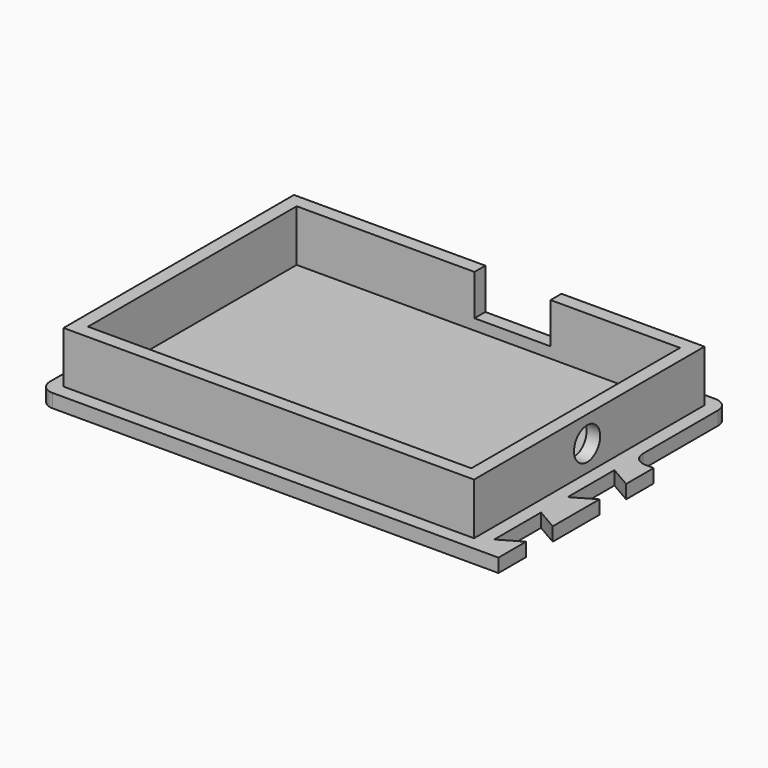
from build123d import *

# Parameters (mm, degrees)
SKETCH_W        = 70.5
SKETCH_H        = 47.97
PAD_DEPTH       = 9.5
THICKNESS_T     = 2.5
PAD001_DEPTH    = 2.5
SKETCH003_R     = 3
POCKET001_DEPTH = 5
SKETCH002_W     = 14
SKETCH002_H     = 7.5
POCKET_DEPTH    = 2.5


with BuildPart() as part:
    # Sketch → Pad (new body)
    with BuildSketch(Plane.XY):
        Rectangle(SKETCH_W, SKETCH_H)
    extrude(amount=PAD_DEPTH)

    # Thickness
    thickness_openings = [part.faces().sort_by_distance(p)[0] for p in [
        (0, 0, 9.5),
        (0, 0, 0),
    ]]
    offset(amount=THICKNESS_T, openings=thickness_openings, kind=Kind.INTERSECTION)

    # Sketch001 → Pad001 (join)
    with BuildSketch(Plane.XY):
        with BuildLine():
            Line((-40.25, 26.5), (-40.25, -26.5))
            ThreePointArc((-40.25, -26.5), (-39.517767, -28.267767), (-37.75, -29))
            Line((-37.75, -29), (40.25, -29))
            Line((40.25, -29), (44.25, -29))
            Line((44.25, -22.65), (44.25, -29))
            Line((44.25, -22.65), (40.25, -24.959401))
            Line((40.25, -14.213533), (40.25, -24.959401))
            Line((44.25, -16.522934), (40.25, -14.213533))
            Line((44.25, -5.777066), (44.25, -16.522934))
            Line((44.25, -5.777066), (40.25, -8.086467))
            Line((40.25, 2.659401), (40.25, -8.086467))
            Line((44.25, 0.35), (40.25, 2.659401))
            Line((44.25, 6.7), (44.25, 0.35))
            Line((42.75, 6.7), (44.25, 6.7))
            ThreePointArc((40.25, 9.2), (40.982233, 7.432233), (42.75, 6.7))
            Line((40.25, 9.2), (40.25, 26.5))
            ThreePointArc((40.25, 26.5), (39.517767, 28.267767), (37.75, 29))
            Line((37.75, 29), (-37.75, 29))
            ThreePointArc((-37.75, 29), (-39.517767, 28.267767), (-40.25, 26.5))
        make_face()
    extrude(amount=-PAD001_DEPTH)

    # Sketch003 (on Face10 of Pad001) → Pocket001 (cut)
    with BuildSketch(Plane.YZ.offset(37.75)):
        with Locations((-0.5, 4.75)):
            Circle(SKETCH003_R)
    extrude(amount=-POCKET001_DEPTH, mode=Mode.SUBTRACT)

    # Sketch002 (on Face7 of Pad001) → Pocket (cut)
    with BuildSketch(Plane(origin=(0, 26.485, 0), x_dir=(-1, 0, 0), z_dir=(0, 1, 0))):
        with Locations((-4.45, 5.75)):
            Rectangle(SKETCH002_W, SKETCH002_H)
    extrude(amount=-POCKET_DEPTH, mode=Mode.SUBTRACT)


solid = part.part
